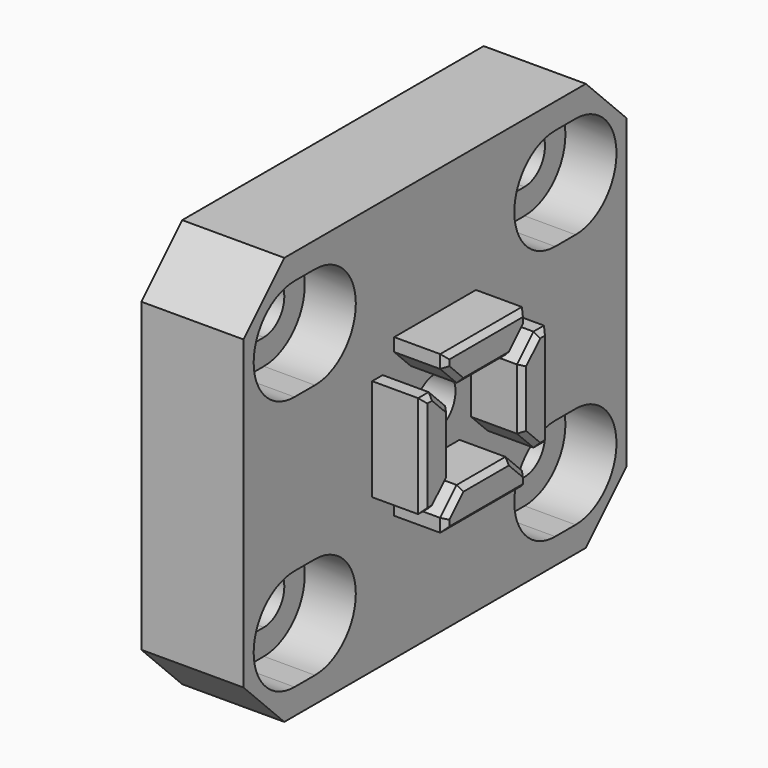
from build123d import *

# Parameters (mm, degrees)
F0_W      = 46.9
F0_H      = 40
F1_DEPTH  = 10
F2_SIZE   = 5
F4_DEPTH  = 5
F5_SIZE   = 0.5
F6_R      = 5
F6_R_2    = 2.5
F7_DEPTH  = 5
F8_DEPTH  = 15.001
F10_DEPTH = 5


with BuildPart() as f1:
    # F0 (on Right) → F1 (new body)
    with BuildSketch(Plane.YZ):
        Rectangle(F0_W, F0_H)
        with BuildLine():
            Line((-14.7, -15), (-17.2, -15))
            ThreePointArc((-17.2, -15), (-19.7, -12.5), (-17.2, -10))
            Line((-17.2, -10), (-14.7, -10))
            ThreePointArc((-14.7, -10), (-12.2, -12.5), (-14.7, -15))
        make_face(mode=Mode.SUBTRACT)
        with BuildLine():
            ThreePointArc((14.7, -15), (12.2, -12.5), (14.7, -10))
            Line((14.7, -10), (17.2, -10))
            ThreePointArc((17.2, -10), (19.7, -12.5), (17.2, -15))
            Line((17.2, -15), (14.7, -15))
        make_face(mode=Mode.SUBTRACT)
        with BuildLine():
            ThreePointArc((-14.7, 15), (-12.2, 12.5), (-14.7, 10))
            Line((-14.7, 10), (-17.2, 10))
            ThreePointArc((-17.2, 10), (-19.7, 12.5), (-17.2, 15))
            Line((-17.2, 15), (-14.7, 15))
        make_face(mode=Mode.SUBTRACT)
        with BuildLine():
            Line((17.2, 10), (14.7, 10))
            ThreePointArc((14.7, 10), (12.2, 12.5), (14.7, 15))
            Line((14.7, 15), (17.2, 15))
            ThreePointArc((17.2, 15), (19.7, 12.5), (17.2, 10))
        make_face(mode=Mode.SUBTRACT)
    extrude(amount=F1_DEPTH)

    # F2
    f2_edges = [f1.edges().sort_by_distance(p)[0] for p in [
        (5, -23.45, -20),
        (5, -23.45, 20),
        (5, 23.45, -20),
        (5, 23.45, 20),
    ]]
    chamfer(f2_edges, length=F2_SIZE)

    # F3 (on face) → F4 (join)
    with BuildSketch(Plane.YZ.offset(10)):
        Polygon((0, 4.4), (2.9857864376, 4.4), (5, 6.4142135624), (5, 7.7), (-5, 7.7), (-5, 6.4142135624), (-2.9857864376, 4.4), align=None)
        Polygon((-7.7, 5), (-7.7, -5), (-6.4142135624, -5), (-4.4, -2.9857864376), (-4.4, 0), (-4.4, 2.9857864376), (-6.4142135624, 5), align=None)
        Polygon((-5, -7.7), (5, -7.7), (5, -6.4142135624), (2.9857864376, -4.4), (0, -4.4), (-2.9857864376, -4.4), (-5, -6.4142135624), align=None)
        Polygon((7.7, -5), (7.7, 5), (6.4142135624, 5), (4.4, 2.9857864376), (4.4, 0), (4.4, -2.9857864376), (6.4142135624, -5), align=None)
    extrude(amount=F4_DEPTH)

    # F5
    f5_edges = [f1.edges().sort_by_distance(p)[0] for p in [
        (15, -5, -7.057107),
        (15, 0, -7.7),
        (15, 5, -7.057107),
        (15, 3.992893, -5.407107),
        (15, 0, -4.4),
        (15, -3.992893, -5.407107),
        (15, -7.057107, 5),
        (15, -7.7, 0),
        (15, -7.057107, -5),
        (15, -5.407107, -3.992893),
        (15, -4.4, 0),
        (15, -5.407107, 3.992893),
        (15, 0, 4.4),
        (15, 3.992893, 5.407107),
        (15, 5, 7.057107),
        (15, 0, 7.7),
        (15, -5, 7.057107),
        (15, -3.992893, 5.407107),
        (15, 4.4, 0),
        (15, 5.407107, -3.992893),
        (15, 7.057107, -5),
        (15, 7.7, 0),
        (15, 7.057107, 5),
        (15, 5.407107, 3.992893),
    ]]
    chamfer(f5_edges, length=F5_SIZE)

    # F6 (on face) → F7 (cut)
    with BuildSketch(Plane(origin=(0, 0, 0), x_dir=(0, -1, 0), z_dir=(-1, 0, 0))):
        Circle(F6_R)
        Circle(F6_R_2, mode=Mode.SUBTRACT)
    extrude(amount=-F7_DEPTH, mode=Mode.SUBTRACT)

    # F8 (cut, through all): a face of the model
    f8_faces = [f1.faces().sort_by_distance(p)[0] for p in [
        (0, 0, 0),
    ]]
    extrude(f8_faces, amount=-F8_DEPTH, mode=Mode.SUBTRACT)

    # F9 (on face) → F10 (cut)
    with BuildSketch(Plane.YZ.offset(10)):
        with BuildLine():
            ThreePointArc((17.2, 7.5), (22.2, 12.5), (17.2, 17.5))
            Line((17.2, 17.5), (14.7, 17.5))
            ThreePointArc((14.7, 17.5), (9.7, 12.5), (14.7, 7.5))
            Line((14.7, 7.5), (17.2, 7.5))
        make_face()
        with BuildLine():
            ThreePointArc((-14.7, 7.5), (-9.7, 12.5), (-14.7, 17.5))
            Line((-14.7, 17.5), (-17.2, 17.5))
            ThreePointArc((-17.2, 17.5), (-22.2, 12.5), (-17.2, 7.5))
            Line((-17.2, 7.5), (-14.7, 7.5))
        make_face()
        with BuildLine():
            ThreePointArc((-17.2, -7.5), (-22.2, -12.5), (-17.2, -17.5))
            Line((-17.2, -17.5), (-14.7, -17.5))
            ThreePointArc((-14.7, -17.5), (-9.7, -12.5), (-14.7, -7.5))
            Line((-14.7, -7.5), (-17.2, -7.5))
        make_face()
        with BuildLine():
            ThreePointArc((14.7, -7.5), (9.7, -12.5), (14.7, -17.5))
            Line((14.7, -17.5), (17.2, -17.5))
            ThreePointArc((17.2, -17.5), (22.2, -12.5), (17.2, -7.5))
            Line((17.2, -7.5), (14.7, -7.5))
        make_face()
    extrude(amount=-F10_DEPTH, mode=Mode.SUBTRACT)


solid = f1.part
